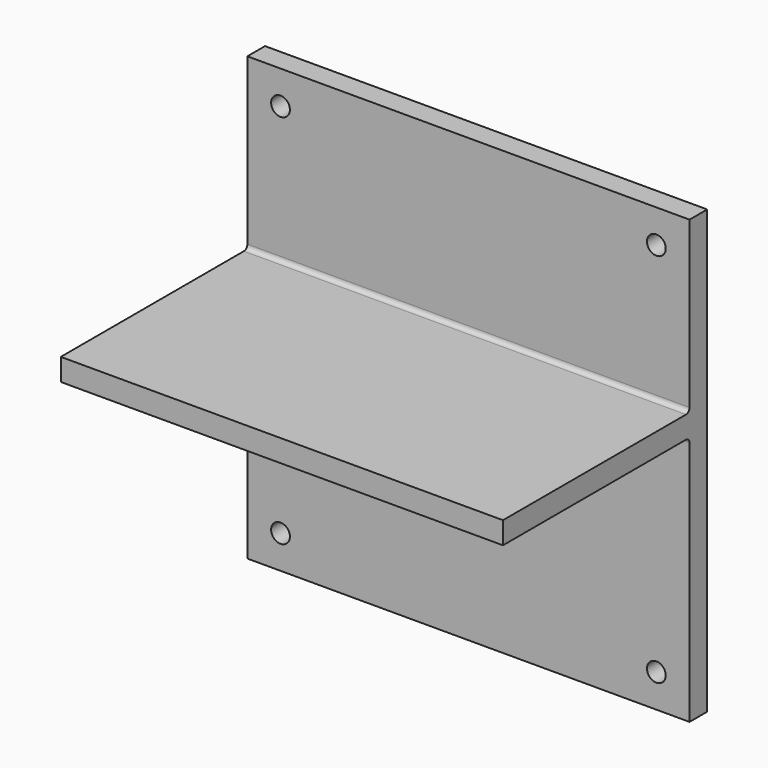
from build123d import *

# Parameters (mm, degrees)
F1_DEPTH = 100
F2_W     = 10
F2_H     = 70
F3_DEPTH = 70
F5_DEPTH = 10
F6_R     = 4.25
F7_DEPTH = 10
F8_R     = 4.25
F9_DEPTH = 10
F10_R    = 2


with BuildPart() as f1:
    # F0 (on Right) → F1 (new body, symmetric)
    with BuildSketch(Plane.YZ):
        Polygon((5, -118.2), (5, 81.8), (-5, 81.8), (-5, 5), (-110.4780795566, 5), (-110.4780795566, -5), (-5, -5), (-5, -118.2), align=None)
    extrude(amount=F1_DEPTH, both=True)

    # F2 (on face) → F3 (join)
    with BuildSketch(Plane.XZ.offset(5)):
        with Locations((0, -40)):
            Rectangle(F2_W, F2_H)
    extrude(amount=F3_DEPTH)

    # F4 (on face) → F5 (cut)
    with BuildSketch(Plane(origin=(-5, 0, 0), x_dir=(0, -1, 0), z_dir=(-1, 0, 0))):
        Polygon((75, -75), (75, -5), (5, -75), align=None)
    extrude(amount=-F5_DEPTH, mode=Mode.SUBTRACT)

    # F6 (on face) → F7 (cut)
    with BuildSketch(Plane.XZ.offset(5)):
        with Locations((85, -103.2)):
            Circle(F6_R)
        with Locations((-85, -103.2)):
            Circle(F6_R)
    extrude(amount=-F7_DEPTH, mode=Mode.SUBTRACT)

    # F8 (on face) → F9 (cut)
    with BuildSketch(Plane.XZ.offset(5)):
        with Locations((-85, 66.8)):
            Circle(F8_R)
        with Locations((85, 66.8)):
            Circle(F8_R)
    extrude(amount=-F9_DEPTH, mode=Mode.SUBTRACT)

    # F10
    f10_edges = [f1.edges().sort_by_distance(p)[0] for p in [
        (-52.5, -5, -5),
        (52.5, -5, -5),
        (-5, -40, -5),
        (-5, -5, -40),
        (5, -5, -40),
        (5, -40, -5),
        (0, -5, 5),
    ]]
    fillet(f10_edges, radius=F10_R)


solid = f1.part
